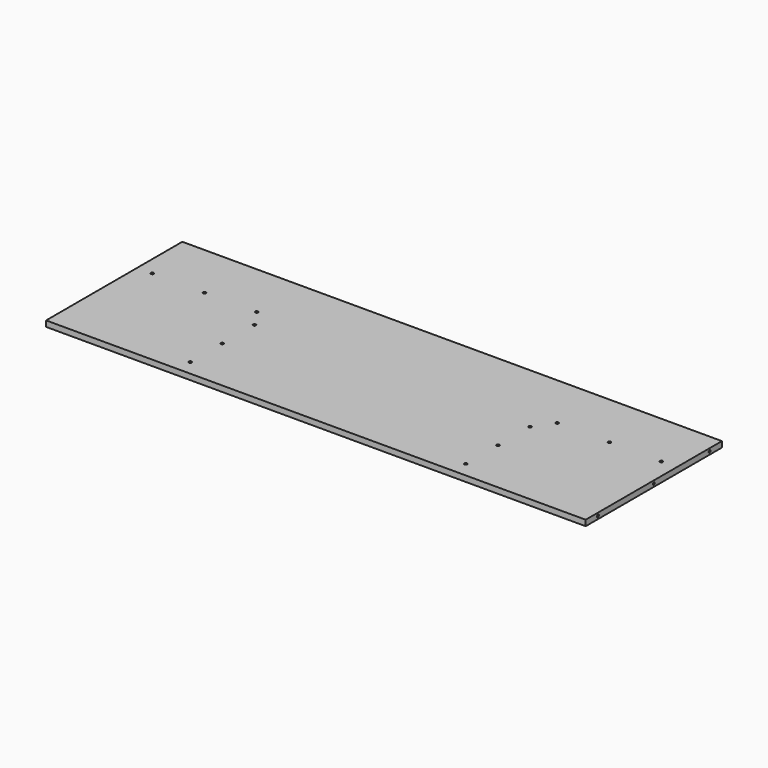
from build123d import *

# Parameters (mm, degrees)
F0_W      = 1790.7
F0_H      = 565.15
F1_DEPTH  = 19.05
F3_D      = 9.525
F3_DEPTH  = 25.4
F3_TIP    = 2.8615986981
F5_D      = 15.0114
F5_DEPTH  = 14.224
F5_TIP    = 4.5098795482
F7_D      = 8.001
F7_DEPTH  = 25.4
F7_TIP    = 2.4037429064
F9_D      = 8.001
F9_DEPTH  = 25.4
F9_TIP    = 2.4037429064
F11_D     = 8.001
F11_DEPTH = 25.4
F11_TIP   = 2.4037429064


with BuildPart() as f1:
    # F0 (on Top) → F1 (new body)
    with BuildSketch(Plane.XY):
        Rectangle(F0_W, F0_H)
    extrude(amount=F1_DEPTH)

    # F3
    with Locations(Plane.XY.offset(19.05)):
        with Locations((-844.9990815409, 95.25), (-671.9361815409, 95.25), (-498.8732815409, 95.25), (-457.6567785209, 34.9250048878), (-457.5982815409, -98.425), (-457.5397845609, -231.7750048878), (457.1365, -231.775), (457.1365, -98.425), (457.1365, 34.925), (498.4115, 95.25), (671.48075, 95.25), (844.55, 95.25)):
            Hole(F3_D / 2, depth=F3_DEPTH)
            with Locations((0, 0, -(F3_DEPTH + F3_TIP / 2))):  # 118° drill point
                Cone(0, F3_D / 2, F3_TIP, mode=Mode.SUBTRACT)

    # F5
    with Locations(Plane(origin=(0, 0, 0), x_dir=(1, 0, 0), z_dir=(0, 0, -1))):
        with Locations((-871.474, 231.775), (-871.474, 0), (-871.474, -231.775), (-844.55, -258.699), (-406.4, -258.699), (0, -258.699), (406.4, -258.699), (844.55, -258.699), (871.474, -231.775), (871.474, 0), (871.474, 231.775)):
            Hole(F5_D / 2, depth=F5_DEPTH)
            with Locations((0, 0, -(F5_DEPTH + F5_TIP / 2))):  # 118° drill point
                Cone(0, F5_D / 2, F5_TIP, mode=Mode.SUBTRACT)

    # F7
    with Locations(Plane(origin=(0, 282.575, 0), x_dir=(-1, 0, 0), z_dir=(0, 1, 0))):
        with Locations((-844.55, 9.525), (-406.4, 9.525), (0, 9.525), (406.4, 9.525), (844.55, 9.525)):
            Hole(F7_D / 2, depth=F7_DEPTH)
            with Locations((0, 0, -(F7_DEPTH + F7_TIP / 2))):  # 118° drill point
                Cone(0, F7_D / 2, F7_TIP, mode=Mode.SUBTRACT)

    # F9
    with Locations(Plane(origin=(-895.35, 0, 0), x_dir=(0, -1, 0), z_dir=(-1, 0, 0))):
        with Locations((-231.775, 9.525), (0, 9.525), (231.775, 9.525)):
            Hole(F9_D / 2, depth=F9_DEPTH)
            with Locations((0, 0, -(F9_DEPTH + F9_TIP / 2))):  # 118° drill point
                Cone(0, F9_D / 2, F9_TIP, mode=Mode.SUBTRACT)

    # F11
    with Locations(Plane.YZ.offset(895.35)):
        with Locations((-231.775, 9.525), (0, 9.525), (231.775, 9.525)):
            Hole(F11_D / 2, depth=F11_DEPTH)
            with Locations((0, 0, -(F11_DEPTH + F11_TIP / 2))):  # 118° drill point
                Cone(0, F11_D / 2, F11_TIP, mode=Mode.SUBTRACT)


solid = f1.part
